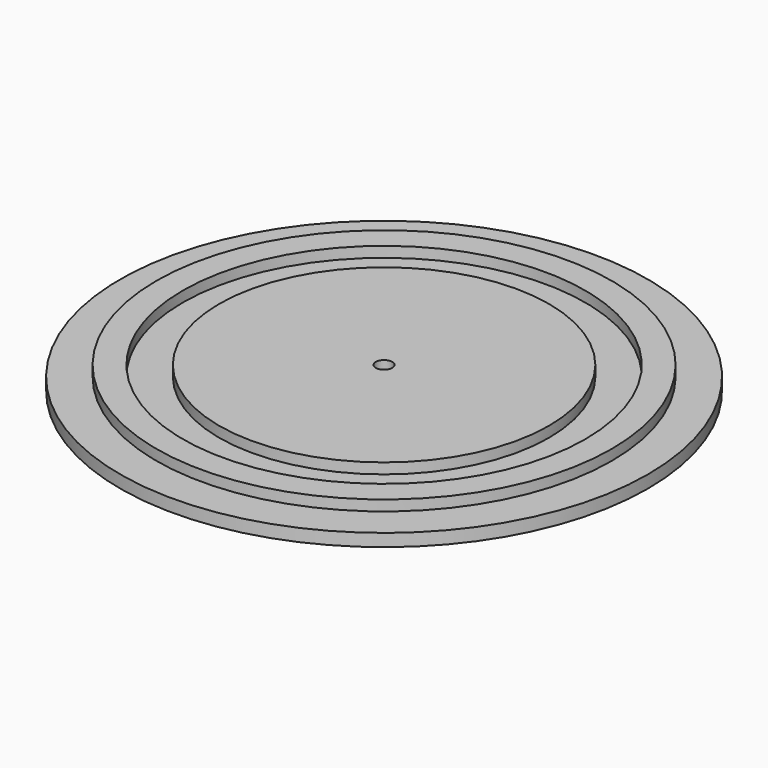
from build123d import *

# Parameters (mm, degrees)
F0_R     = 50.8
F0_R_2   = 43.815
F0_R_3   = 38.735
F0_R_4   = 31.75
F0_R_5   = 1.581227411
F1_DEPTH = 4.445
F2_DEPTH = 2.032


with BuildPart() as f1:
    # F0 (on Top) → F1 (new body)
    with BuildSketch(Plane.XY):
        with Locations((1.2696e-06, 0.0096165841)):
            Circle(F0_R)
        with Locations((1.2696e-06, 0.0096165841)):
            Circle(F0_R_2, mode=Mode.SUBTRACT)
        with Locations((1.2696e-06, 0.0096165841)):
            Circle(F0_R_2)
        with Locations((1.2696e-06, 0.0096165841)):
            Circle(F0_R_3, mode=Mode.SUBTRACT)
        with Locations((1.2696e-06, 0.0096165841)):
            Circle(F0_R_3)
        with Locations((1.2696e-06, 0.0096165841)):
            Circle(F0_R_4, mode=Mode.SUBTRACT)
        with Locations((1.2696e-06, 0.0096165841)):
            Circle(F0_R_4)
        Circle(F0_R_5, mode=Mode.SUBTRACT)
    extrude(amount=-F1_DEPTH)

    # F0 (on Top) → F2 (cut)
    with BuildSketch(Plane.XY):
        with Locations((1.2696e-06, 0.0096165841)):
            Circle(F0_R)
        with Locations((1.2696e-06, 0.0096165841)):
            Circle(F0_R_2, mode=Mode.SUBTRACT)
        with Locations((1.2696e-06, 0.0096165841)):
            Circle(F0_R_3)
        with Locations((1.2696e-06, 0.0096165841)):
            Circle(F0_R_4, mode=Mode.SUBTRACT)
    extrude(amount=-F2_DEPTH, mode=Mode.SUBTRACT)


solid = f1.part
